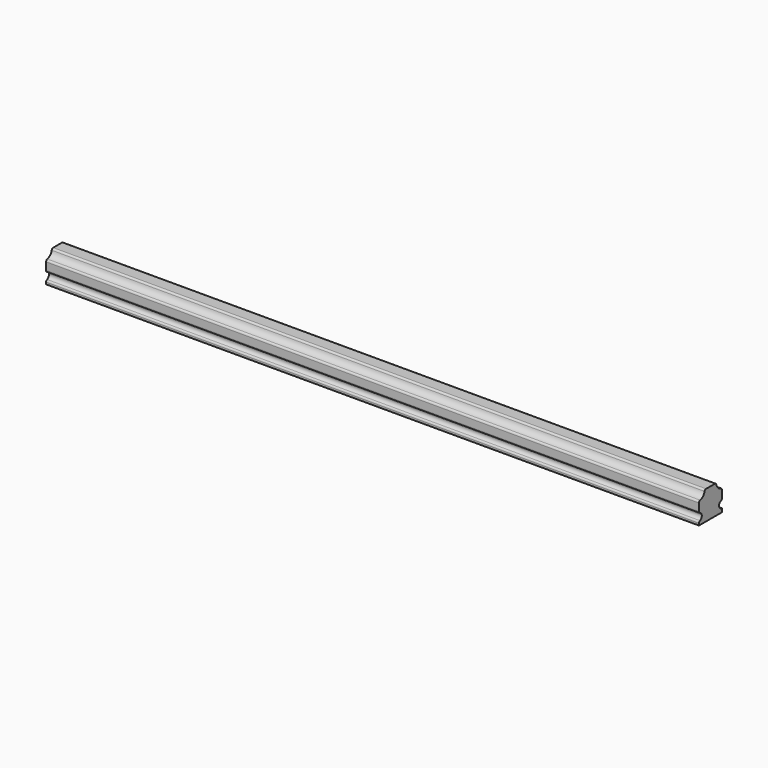
from build123d import *

# Parameters (mm, degrees)
F1_DEPTH = 1732.3054
F2_R     = 5.08


with BuildPart() as f1:
    # F0 (on Right) → F1 (new body)
    with BuildSketch(Plane.YZ):
        with BuildLine():
            Line((-38.1, -38.1), (38.1, -38.1))
            Line((38.1, -38.1), (38.1, -28.575))
            ThreePointArc((38.1, -28.575), (28.575, -19.05), (38.1, -9.525))
            Line((38.1, -9.525), (38.1, 19.05))
            ThreePointArc((38.1, 19.05), (24.629616, 24.629616), (19.05, 38.1))
            Line((19.05, 38.1), (-19.05, 38.1))
            ThreePointArc((-19.05, 38.1), (-24.629616, 24.629616), (-38.1, 19.05))
            Line((-38.1, 19.05), (-38.1, -9.525))
            ThreePointArc((-38.1, -9.525), (-28.575, -19.05), (-38.1, -28.575))
            Line((-38.1, -28.575), (-38.1, -38.1))
        make_face()
    extrude(amount=F1_DEPTH)

    # F2
    f2_edges = [f1.edges().sort_by_distance(p)[0] for p in [
        (866.1527, -19.05, 38.1),
        (866.1527, 38.1, 19.05),
        (866.1527, -38.1, 19.05),
        (866.1527, -38.1, -9.525),
        (866.1527, -38.1, -28.575),
        (866.1527, 38.1, -9.525),
        (866.1527, 19.05, 38.1),
    ]]
    fillet(f2_edges, radius=F2_R)


solid = f1.part
